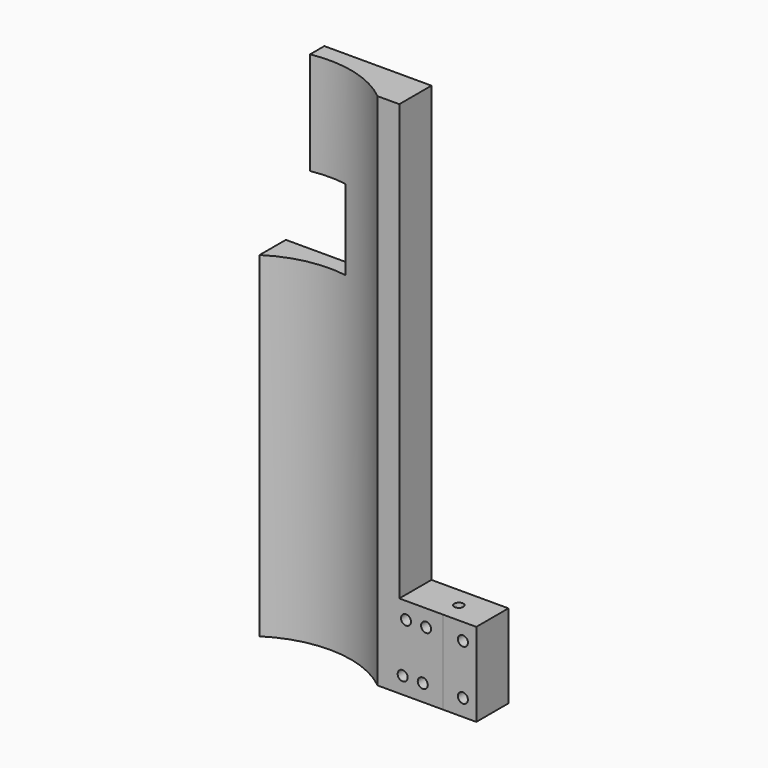
from build123d import *

# Parameters (mm, degrees)
PAD_DEPTH       = 155
SKETCH001_R     = 1.5
SKETCH001_W     = 13
SKETCH001_H     = 130
POCKET_DEPTH    = 12.001
SKETCH002_W     = 5.583172
SKETCH002_H     = 23.950112
POCKET001_DEPTH = 155.001
SKETCH003_W     = 22
SKETCH003_H     = 24
POCKET002_DEPTH = 12.001
SKETCH004_W     = 11.5
SKETCH004_H     = 12.924639
POCKET003_DEPTH = 31
SKETCH005_W     = 12
SKETCH005_H     = 25
PAD001_DEPTH    = 10
SKETCH006_R     = 1.35
POCKET004_DEPTH = 155.001
SKETCH007_R     = 1.5
POCKET005_DEPTH = 12.001003


with BuildPart() as part:
    # Sketch → Pad (new body)
    with BuildSketch(Plane.XY):
        with BuildLine():
            Line((39.5, 4.836187), (-20, 4.836187))
            Line((-20, 4.836187), (-20, -7.163813))
            ThreePointArc((20, -7.163813), (0, 0), (-20, -7.163813))
            Line((20, -7.163813), (39.5, -7.163813))
            Line((39.5, 4.836187), (39.5, -7.163813))
        make_face()
    extrude(amount=-PAD_DEPTH)

    # Sketch001 → Pocket (cut, through all)
    with BuildSketch(Plane.XZ.offset(7.163813)):
        with Locations((28.5, -135)):
            Circle(SKETCH001_R)
        with Locations((34.5, -135)):
            Circle(SKETCH001_R)
        with Locations((33, -65)):
            Rectangle(SKETCH001_W, SKETCH001_H)
    extrude(amount=-POCKET_DEPTH, mode=Mode.SUBTRACT)

    # Sketch002 → Pocket001 (cut, through all)
    with BuildSketch(Plane(origin=(0, 0, -155), x_dir=(1, 0, 0), z_dir=(0, 0, -1))):
        with Locations((-19.791586, -0.240771)):
            Rectangle(SKETCH002_W, SKETCH002_H)
    extrude(amount=-POCKET001_DEPTH, mode=Mode.SUBTRACT)

    # Sketch003 → Pocket002 (cut, through all)
    with BuildSketch(Plane(origin=(0, 4.836187, 0), x_dir=(-1, 0, 0), z_dir=(0, 1, 0))):
        with Locations((6, -42.7)):
            Rectangle(SKETCH003_W, SKETCH003_H)
    extrude(amount=-POCKET002_DEPTH, mode=Mode.SUBTRACT)

    # Sketch004 → Pocket003 (cut)
    with BuildSketch(Plane.XY):
        with Locations((-11.25, 0.936987)):
            Rectangle(SKETCH004_W, SKETCH004_H)
    extrude(amount=-POCKET003_DEPTH, mode=Mode.SUBTRACT)

    # Sketch005 → Pad001 (new body)
    with BuildSketch(Plane.YZ.offset(39.5)):
        with Locations((-1.16381, -142.5)):
            Rectangle(SKETCH005_W, SKETCH005_H)
    extrude(amount=PAD001_DEPTH)

    # Sketch006 → Pocket004 (cut, through all)
    with BuildSketch(Plane(origin=(0, 0, -155), x_dir=(1, 0, 0), z_dir=(0, 0, -1))):
        with Locations((39.5, 1.16381)):
            Circle(SKETCH006_R)
    extrude(amount=-POCKET004_DEPTH, mode=Mode.SUBTRACT)

    # Sketch007 → Pocket005 (cut, through all)
    with BuildSketch(Plane(origin=(0, 4.83619, 0), x_dir=(-1, 0, 0), z_dir=(0, 1, 0))):
        with Locations((-45.5, -135)):
            Circle(SKETCH007_R)
        with Locations((-45.5, -150)):
            Circle(SKETCH007_R)
        with Locations((-33.5, -150)):
            Circle(SKETCH007_R)
        with Locations((-27.5, -150)):
            Circle(SKETCH007_R)
    extrude(amount=-POCKET005_DEPTH, mode=Mode.SUBTRACT)


solid = part.part
